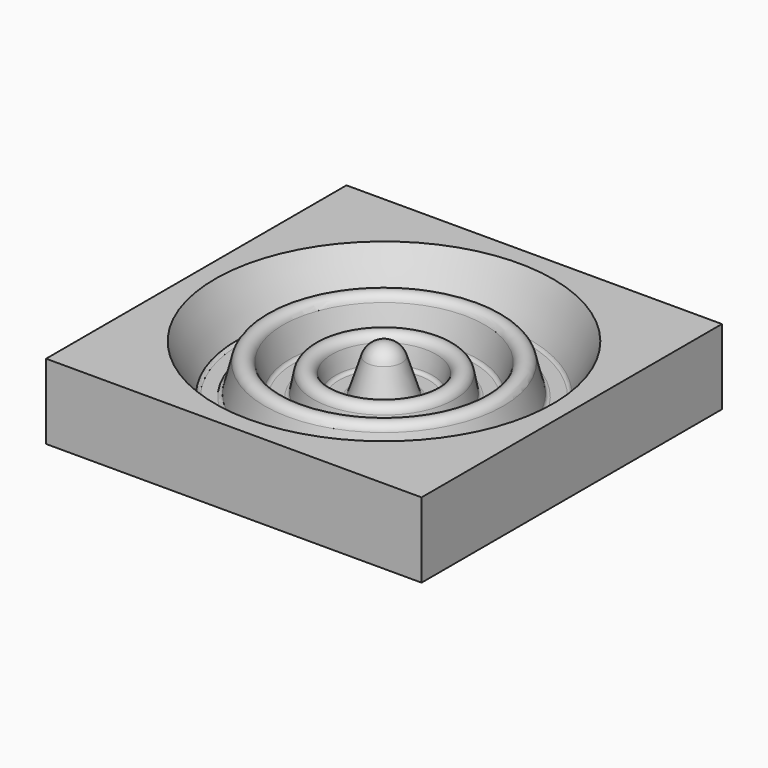
from build123d import *

# Parameters (mm, degrees)
F0_W     = 100
F0_H     = 100
F1_DEPTH = 20


with BuildPart() as f1:
    # F0 (on Top) → F1 (new body)
    with BuildSketch(Plane.XY):
        with Locations((50, 50)):
            Rectangle(F0_W, F0_H)
    extrude(amount=F1_DEPTH)

    # F3 (on offset) → F4 (revolve, cut)
    with BuildSketch(Plane.YZ.offset(50)):
        with BuildLine():
            ThreePointArc((45.2379500648, 16.5240998704), (47.0521617541, 19.0385950126), (50, 20))
            Line((50, 20), (50, 25.9662102908))
            Line((50, 25.9662102908), (5, 25.9662102908))
            Line((5, 25.9662102908), (5, 20))
            Line((5, 20), (10.9183023877, 7.5701075147))
            ThreePointArc((10.9183023877, 7.5701075147), (11.2872782158, 7.1544550617), (11.8211824744, 7))
            Line((11.8211824744, 7), (15.4134448627, 7))
            ThreePointArc((15.4134448627, 7), (16.0266605756, 7.2100845049), (16.3822220496, 7.7520670211))
            Line((16.3822220496, 7.7520670211), (18.2678073567, 15.1198324471))
            ThreePointArc((18.2678073567, 15.1198324471), (20.6897503241, 17), (23.1116932915, 15.1198324471))
            Line((23.1116932915, 15.1198324471), (24.9972785985, 7.7520670211))
            ThreePointArc((24.9972785985, 7.7520670211), (25.3528400726, 7.2100845049), (25.9660557855, 7))
            Line((25.9660557855, 7), (29.362644579, 7))
            ThreePointArc((29.362644579, 7), (29.9999925314, 7.22942386), (30.344894829, 7.812424825))
            Line((30.344894829, 7.812424825), (31.234124699, 12.4689379376))
            ThreePointArc((31.234124699, 12.4689379376), (33.6897503241, 14.5), (36.1453759492, 12.4689379376))
            Line((36.1453759492, 12.4689379376), (37.0346058192, 7.812424825))
            ThreePointArc((37.0346058192, 7.812424825), (37.3795081168, 7.22942386), (38.0168560692, 7))
            Line((38.0168560692, 7), (41.4598335494, 7))
            ThreePointArc((41.4598335494, 7), (42.0494011986, 7.1922809975), (42.4122435364, 7.6951800259))
            Line((42.4122435364, 7.6951800259), (45.2379500648, 16.5240998704))
        make_face()
    revolve(axis=Axis((50, 50, 17.0585268643), (0, 0, -1)), mode=Mode.SUBTRACT)


solid = f1.part
